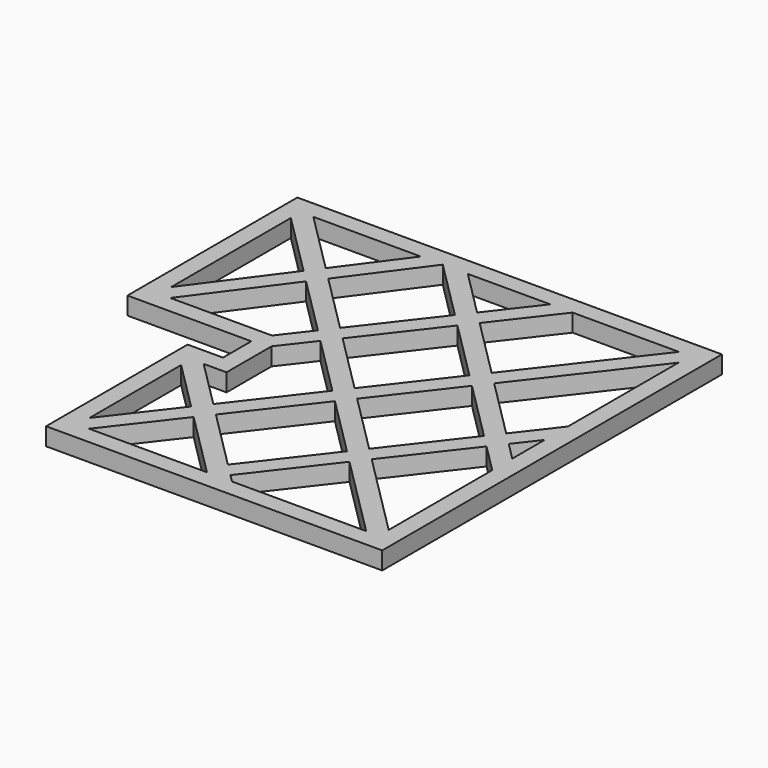
from build123d import *

# Parameters (mm, degrees)
F1_DEPTH  = 5
F3_DEPTH  = 25
F5_DEPTH  = 5
F7_DEPTH  = 5
F9_DEPTH  = 5
F11_DEPTH = 5
F13_DEPTH = 5
F15_DEPTH = 5
F17_DEPTH = 5


with BuildPart() as f1:
    # F0 (on Top) → F1 (new body)
    with BuildSketch(Plane.XY):
        Polygon((120, 120), (0, 120), (0, 60), (35, 60), (35, 50), (25, 50), (25, 0), (120, 0), align=None)
    extrude(amount=F1_DEPTH)

    # F2 (on face) → F3 (cut)
    with BuildSketch(Plane.XY.offset(5)):
        Polygon((5, 115), (5, 65), (40, 65), (40, 45), (30, 45), (30, 5), (115, 5), (115, 115), align=None)
    extrude(amount=-F3_DEPTH, mode=Mode.SUBTRACT)

    # F4 (on face) → F5 (join)
    with BuildSketch(Plane.XY.offset(5)):
        Polygon((115, 8.5355339059), (8.5355339059, 115), (5, 115), (5, 111.4644660941), (111.4644660941, 5), (115, 5), align=None)
    extrude(amount=-F5_DEPTH)

    # F6 (on face) → F7 (join)
    with BuildSketch(Plane.XY.offset(5)):
        Polygon((70.3746479557, 53.1608859502), (115, 110.9113415369), (115, 115), (111.8405820967, 115), (66.8101764751, 56.7253574308), align=None)
        Polygon((67.2923876275, 49.1720784666), (70.3746479557, 53.1608859502), (66.8101764751, 56.7253574308), (63.7279161468, 52.7365499472), align=None)
        Polygon((33.1594179033, 5), (67.2923876275, 49.1720784666), (63.7279161468, 52.7365499472), (30, 9.0886584631), (30, 5), align=None)
    extrude(amount=-F7_DEPTH)

    # F8 (on face) → F9 (join)
    with BuildSketch(Plane.XY.offset(5)):
        Polygon((46.2973559623, 77.2381779437), (49.8618274429, 73.673706463), (81.7957815396, 115), (75.4769457331, 115), align=None)
        Polygon((43.215095634, 73.24937046), (46.7795671147, 69.6848989794), (49.8618274429, 73.673706463), (46.2973559623, 77.2381779437), align=None)
        Polygon((40, 65), (40, 60.9113415369), (46.7795671147, 69.6848989794), (43.215095634, 73.24937046), (36.8405820967, 65), align=None)
    extrude(amount=-F9_DEPTH)

    # F10 (on face) → F11 (join)
    with BuildSketch(Plane.XY.offset(5)):
        Polygon((25.9828204872, 97.5527134187), (29.5575639886, 93.9779699173), (45.1164897233, 115), (38.8959899157, 115), align=None)
        Polygon((22.9752933056, 93.4891727885), (26.550036807, 89.914429287), (29.5575639886, 93.9779699173), (25.9828204872, 97.5527134187), align=None)
        Polygon((5, 65), (8.1102499038, 65), (26.550036807, 89.914429287), (22.9752933056, 93.4891727885), (5, 69.2023317134), align=None)
    extrude(amount=-F11_DEPTH)

    # F12 (on face) → F13 (join)
    with BuildSketch(Plane.XY.offset(5)):
        Polygon((30, 45), (30, 41.4644660941), (44.1125315315, 27.3519345626), (47.1947918597, 31.3407420462), (33.5355339059, 45), align=None)
        Polygon((47.1947918597, 31.3407420462), (44.1125315315, 27.3519345626), (47.6770030121, 23.787463082), (50.7592633403, 27.7762705656), align=None)
        Polygon((50.7592633403, 27.7762705656), (47.6770030121, 23.787463082), (66.4644660941, 5), (73.5355339059, 5), align=None)
    extrude(amount=-F13_DEPTH)

    # F14 (on face) → F15 (join)
    with BuildSketch(Plane.XY.offset(5)):
        Polygon((52.1875575351, 115), (45.1164897233, 115), (62.2429008057, 97.8735889176), (65.325161134, 101.8623964012), align=None)
        Polygon((65.325161134, 101.8623964012), (62.2429008057, 97.8735889176), (65.8073722864, 94.3091174369), (68.8896326146, 98.2979249205), align=None)
        Polygon((68.8896326146, 98.2979249205), (65.8073722864, 94.3091174369), (82.7557213186, 77.3607684047), (85.8379816468, 81.3495758883), align=None)
        Polygon((89.4024531274, 77.7851044077), (86.3201927992, 73.7962969241), (115, 45.1164897233), (115, 52.1875575351), align=None)
        Polygon((85.8379816468, 81.3495758883), (82.7557213186, 77.3607684047), (86.3201927992, 73.7962969241), (89.4024531274, 77.7851044077), align=None)
    extrude(amount=-F15_DEPTH)

    # F16 (on face) → F17 (join)
    with BuildSketch(Plane.XY.offset(5)):
        Polygon((115, 71.8401578906), (106.4334818964, 60.7540756388), (109.997953377, 57.1896041582), (115, 63.6628409644), align=None)
        Polygon((106.4334818964, 60.7540756388), (103.3512215681, 56.7652681552), (106.9156930487, 53.2007966745), (109.997953377, 57.1896041582), align=None)
        Polygon((103.3512215681, 56.7652681552), (87.4056767246, 36.1298571813), (90.9701482053, 32.5653857007), (106.9156930487, 53.2007966745), align=None)
        Polygon((87.4056767246, 36.1298571813), (84.3234163964, 32.1410496977), (87.887887877, 28.576578217), (90.9701482053, 32.5653857007), align=None)
        Polygon((84.3234163964, 32.1410496977), (67.7902921093, 10.7452417967), (71.3547635899, 7.180770316), (87.887887877, 28.576578217), align=None)
    extrude(amount=-F17_DEPTH)


solid = f1.part
